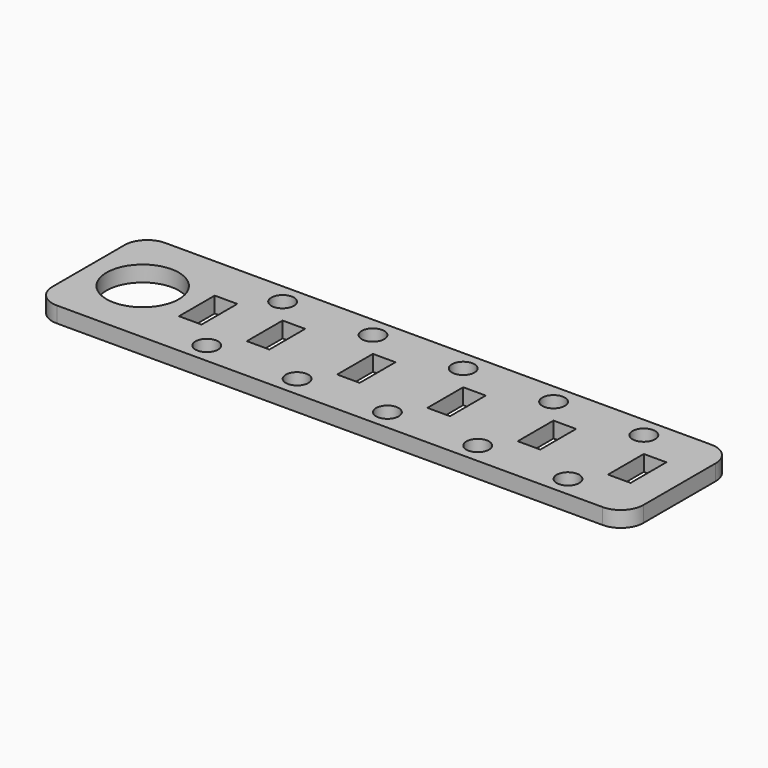
from build123d import *

# Parameters (mm, degrees)
F0_R     = 2.5
F0_R_2   = 8
F0_W     = 5
F0_H     = 9.9
F1_DEPTH = 3.5


with BuildPart() as f1:
    # F0 (on Top) → F1 (new body)
    with BuildSketch(Plane.XY):
        with BuildLine():
            ThreePointArc((0, -5), (-1.464466, -1.464466), (-5, 0))
            Line((-5, 0), (-125.9, 0))
            ThreePointArc((-125.9, 0), (-129.435534, -1.464466), (-130.9, -5))
            Line((-130.9, -5), (-130.9, -25))
            ThreePointArc((-130.9, -25), (-129.435534, -28.535534), (-125.9, -30))
            Line((-125.9, -30), (-5, -30))
            ThreePointArc((-5, -30), (-1.464466, -28.535534), (0, -25))
            Line((0, -25), (0, -5))
        make_face()
        with Locations((-96.3, -25.5)):
            Circle(F0_R, mode=Mode.SUBTRACT)
        with Locations((-76.3, -25.5)):
            Circle(F0_R, mode=Mode.SUBTRACT)
        with Locations((-56.3, -25.5)):
            Circle(F0_R, mode=Mode.SUBTRACT)
        with Locations((-36.3, -25.5)):
            Circle(F0_R, mode=Mode.SUBTRACT)
        with Locations((-16.3, -25.5)):
            Circle(F0_R, mode=Mode.SUBTRACT)
        with Locations((-118.9, -15)):
            Circle(F0_R_2, mode=Mode.SUBTRACT)
        with Locations((-104.4, -15)):
            Rectangle(F0_W, F0_H, mode=Mode.SUBTRACT)
        with Locations((-89.4, -14.965372)):
            Rectangle(F0_W, F0_H, mode=Mode.SUBTRACT)
        with Locations((-69.4, -14.965372)):
            Rectangle(F0_W, F0_H, mode=Mode.SUBTRACT)
        with Locations((-96.3, -4.5)):
            Circle(F0_R, mode=Mode.SUBTRACT)
        with Locations((-76.3, -4.5)):
            Circle(F0_R, mode=Mode.SUBTRACT)
        with Locations((-49.4, -14.965372)):
            Rectangle(F0_W, F0_H, mode=Mode.SUBTRACT)
        with Locations((-29.4, -14.965372)):
            Rectangle(F0_W, F0_H, mode=Mode.SUBTRACT)
        with Locations((-9.4, -14.965372)):
            Rectangle(F0_W, F0_H, mode=Mode.SUBTRACT)
        with Locations((-56.3, -4.5)):
            Circle(F0_R, mode=Mode.SUBTRACT)
        with Locations((-36.3, -4.5)):
            Circle(F0_R, mode=Mode.SUBTRACT)
        with Locations((-16.3, -4.5)):
            Circle(F0_R, mode=Mode.SUBTRACT)
    extrude(amount=F1_DEPTH)


solid = f1.part
